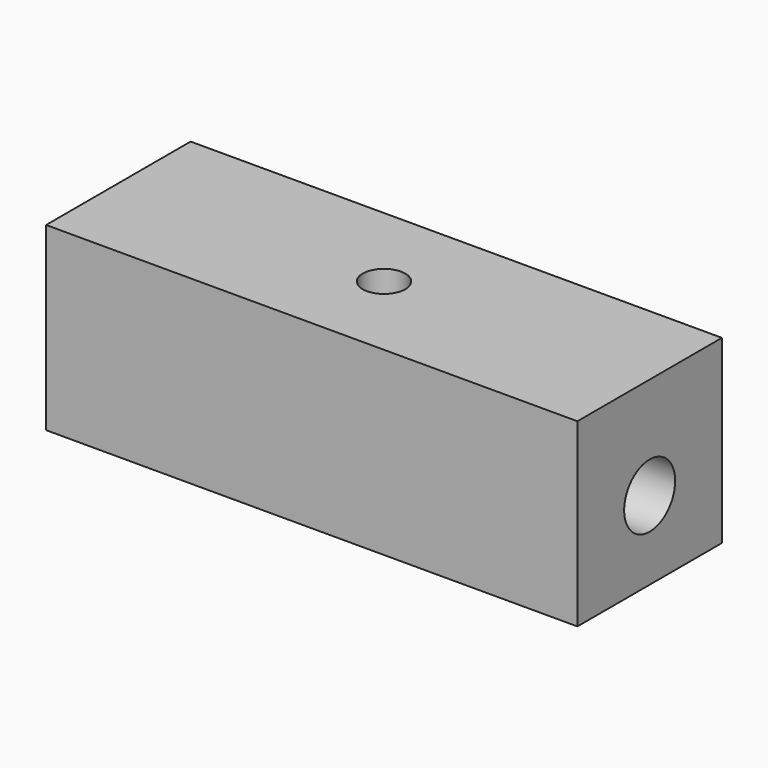
from build123d import *

# Parameters (mm, degrees)
F0_W     = 50
F0_H     = 17
F1_DEPTH = 17
F2_R     = 3
F3_DEPTH = 50.1
F4_R     = 2
F5_DEPTH = 4


with BuildPart() as f1:
    # F0 (on Front) → F1 (new body)
    with BuildSketch(Plane.XZ):
        with Locations((-22.598265, 1.11262)):
            Rectangle(F0_W, F0_H)
    extrude(amount=F1_DEPTH)

    # F2 (on face) → F3 (cut)
    with BuildSketch(Plane.YZ.offset(2.401735)):
        with Locations((-8.5, 0)):
            Circle(F2_R)
    extrude(amount=-F3_DEPTH, mode=Mode.SUBTRACT)

    # F4 (on face) → F5 (cut)
    with BuildSketch(Plane.XY.offset(9.61262)):
        with Locations((-22.598265, -8.5)):
            Circle(F4_R)
    extrude(amount=-F5_DEPTH, mode=Mode.SUBTRACT)


solid = f1.part
